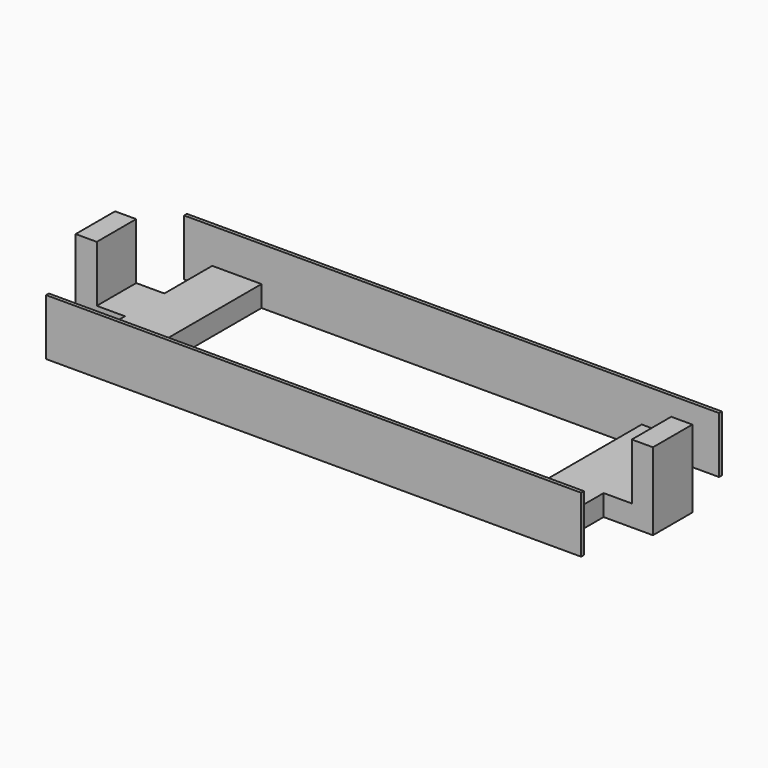
from build123d import *

# Parameters (mm, degrees)
F0_W      = 965.2
F0_H      = 101.6
F1_DEPTH  = 6.35
F2_W      = 88.9
F2_H      = 38.1
F3_DEPTH  = 304.8
F4_W      = 88.9
F4_H      = 38.1
F5_DEPTH  = 88.9
F6_W      = 38.1
F6_H      = 88.9
F7_DEPTH  = 101.6
F8_W      = 88.9
F8_H      = 38.1
F9_DEPTH  = 88.9
F10_W     = 38.1
F10_H     = 88.9
F11_DEPTH = 101.6
F13_DEPTH = 6.35


with BuildPart() as f1:
    # F0 (on Front) → F1 (new body)
    with BuildSketch(Plane.XZ):
        Rectangle(F0_W, F0_H)
    extrude(amount=F1_DEPTH)

    # F2 (on face) → F3 (join)
    with BuildSketch(Plane.XZ.offset(6.35)):
        with Locations((-387.35, -31.75)):
            Rectangle(F2_W, F2_H)
        with Locations((387.35, -31.75)):
            Rectangle(F2_W, F2_H)
    extrude(amount=F3_DEPTH)

    # F4 (on face) → F5 (join)
    with BuildSketch(Plane(origin=(-431.8, 0, 0), x_dir=(0, -1, 0), z_dir=(-1, 0, 0))):
        with Locations((158.75, -31.75)):
            Rectangle(F4_W, F4_H)
    extrude(amount=F5_DEPTH)

    # F6 (on face) → F7 (join)
    with BuildSketch(Plane.XY.offset(-12.7)):
        with Locations((-501.65, -158.75)):
            Rectangle(F6_W, F6_H)
    extrude(amount=F7_DEPTH)

    # F8 (on face) → F9 (join)
    with BuildSketch(Plane.YZ.offset(431.8)):
        with Locations((-158.75, -31.75)):
            Rectangle(F8_W, F8_H)
    extrude(amount=F9_DEPTH)

    # F10 (on face) → F11 (join)
    with BuildSketch(Plane.XY.offset(-12.7)):
        with Locations((501.65, -158.75)):
            Rectangle(F10_W, F10_H)
    extrude(amount=F11_DEPTH)

    # F12 (on face) → F13 (join)
    with BuildSketch(Plane.XZ.offset(311.15)):
        Polygon((-482.6, -50.8), (-431.8, -50.8), (482.6, -50.8), (482.6, 50.8), (-482.6, 50.8), align=None)
    extrude(amount=F13_DEPTH)


solid = f1.part
